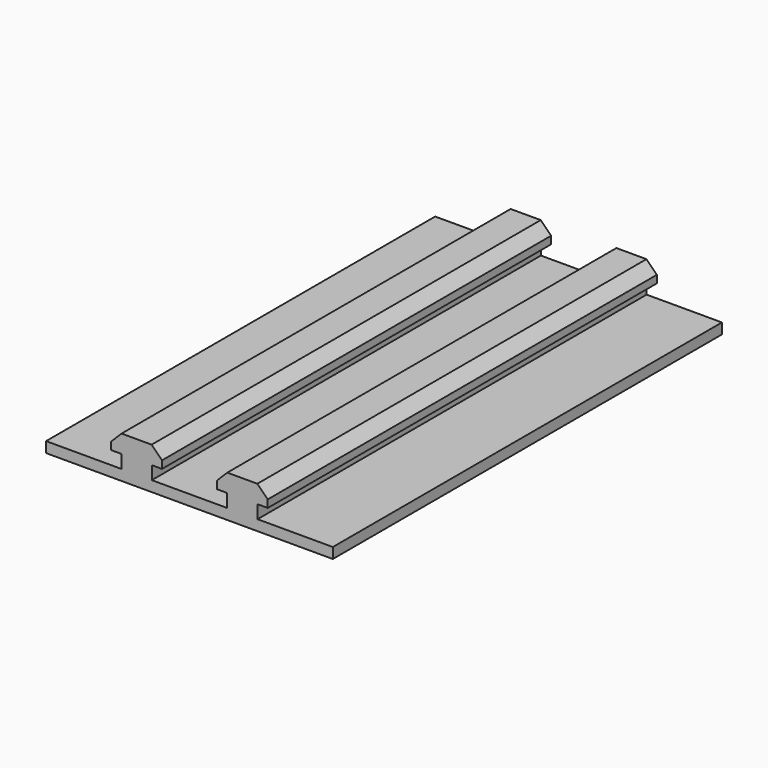
from build123d import *

# Parameters (mm, degrees)
PAD_DEPTH = 92


with BuildPart() as part:
    # Sketch001 → Pad (new body)
    with BuildSketch(Plane.XZ):
        Polygon((-27.12, 0), (27.12, 0), (27.12, 2), (12.88, 2), (12.88, 4.5), (14.81, 4.5), (14.81, 5.93), (12.844243, 7.895757), (7.154243, 7.895757), (5.188486, 5.93), (5.188486, 4.5), (7.118486, 4.5), (7.118486, 2), (-7.121514, 2), (-7.121514, 4.5), (-5.191514, 4.5), (-5.191514, 5.93), (-7.155757, 7.897269), (-12.845757, 7.897269), (-14.81, 5.93), (-14.81, 4.5), (-12.88, 4.5), (-12.88, 2), (-27.12, 2), align=None)
    extrude(amount=PAD_DEPTH)


solid = part.part
